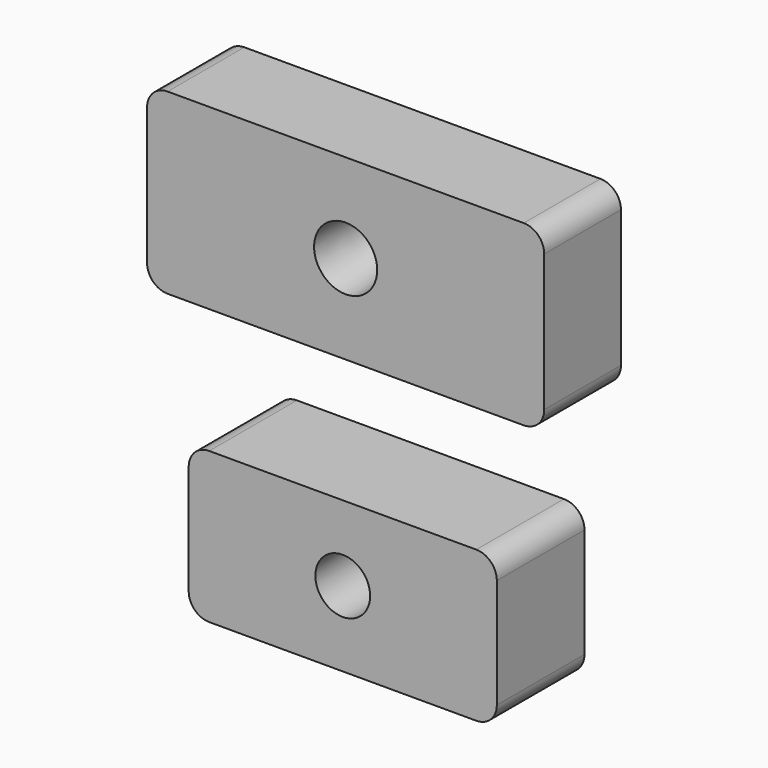
from build123d import *

# Parameters (mm, degrees)
F0_W     = 58
F0_H     = 26
F0_R     = 4.0765
F1_DEPTH = 14
F2_DEPTH = 2
F3_R     = 4.61
F3_R_2   = 4.0765
F4_DEPTH = 8.382
F4_TAPER = 3.5
F5_R     = 3
F6_W     = 45
F6_H     = 22
F6_R     = 4
F7_DEPTH = 16
F8_R     = 3


with BuildPart() as f1:
    # F0 (on Front) → F1 (new body)
    with BuildSketch(Plane.XZ):
        Rectangle(F0_W, F0_H)
        with BuildLine():
            ThreePointArc((-15, -9), (-24, 0), (-15, 9))
            Line((-15, 9), (15, 9))
            ThreePointArc((15, 9), (24, 0), (15, -9))
            Line((15, -9), (-15, -9))
        make_face(mode=Mode.SUBTRACT)
        with BuildLine():
            Line((15, 9), (-15, 9))
            ThreePointArc((-15, 9), (-24, 0), (-15, -9))
            Line((-15, -9), (15, -9))
            ThreePointArc((15, -9), (24, 0), (15, 9))
        make_face()
        Circle(F0_R, mode=Mode.SUBTRACT)
    extrude(amount=F1_DEPTH)

    # F0 (on Front) → F2 (join)
    with BuildSketch(Plane.XZ):
        with BuildLine():
            Line((15, 9), (-15, 9))
            ThreePointArc((-15, 9), (-24, 0), (-15, -9))
            Line((-15, -9), (15, -9))
            ThreePointArc((15, -9), (24, 0), (15, 9))
        make_face()
        Circle(F0_R, mode=Mode.SUBTRACT)
    extrude(amount=-F2_DEPTH)

    # F3 (on face) → F4 (cut)
    with BuildSketch(Plane.XZ.offset(14)):
        Circle(F3_R)
        Circle(F3_R_2, mode=Mode.SUBTRACT)
        Circle(F3_R_2)
    extrude(amount=-F4_DEPTH, taper=F4_TAPER, mode=Mode.SUBTRACT)

    # F5
    f5_edges = [f1.edges().sort_by_distance(p)[0] for p in [
        (29, -7, 13),
        (29, -7, -13),
        (-29, -7, 13),
        (-29, -7, -13),
    ]]
    fillet(f5_edges, radius=F5_R)


with BuildPart() as f7:
    # F6 (on Front) → F7 (new body)
    with BuildSketch(Plane.XZ):
        with Locations((1.1767878896, -40.8962557654)):
            Rectangle(F6_W, F6_H)
        with Locations((1.1767878896, -40.8962557654)):
            Circle(F6_R, mode=Mode.SUBTRACT)
    extrude(amount=F7_DEPTH)

    # F8
    f8_edges = [f7.edges().sort_by_distance(p)[0] for p in [
        (23.676788, -8, -29.896256),
        (23.676788, -8, -51.896256),
        (-21.323212, -8, -29.896256),
        (-21.323212, -8, -51.896256),
    ]]
    fillet(f8_edges, radius=F8_R)


solid = Compound([f1.part, f7.part])
